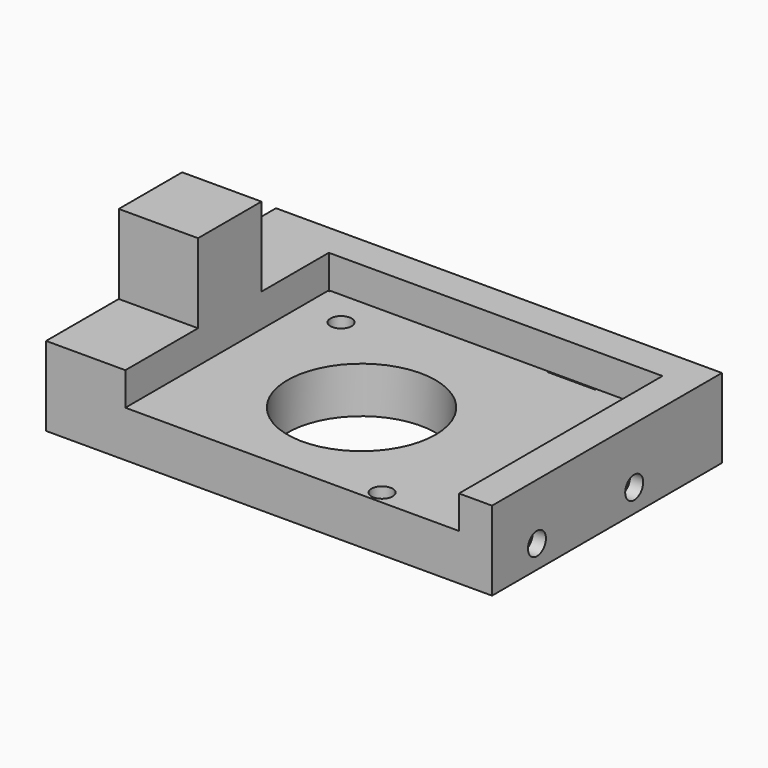
from build123d import *

# Parameters (mm, degrees)
SKETCH_W        = 67.5
SKETCH_H        = 43.5
SKETCH_R        = 11.2
SKETCH_R_2      = 1.6
SKETCH_W_2      = 7.2
SKETCH_H_2      = 3.2
SKETCH_W_3      = 3.2
SKETCH_H_3      = 7.2
PAD_DEPTH       = 7
PAD001_DEPTH    = 5
SKETCH002_W     = 12
SKETCH002_H     = 12
PAD002_DEPTH    = 12
SKETCH003_R     = 4.2
POCKET_DEPTH    = 5
SKETCH004_R     = 1.7
POCKET001_DEPTH = 5
SKETCH005_R     = 1.7
POCKET002_DEPTH = 5


with BuildPart() as part:
    # Sketch → Pad (new body)
    with BuildSketch(Plane.XY):
        Rectangle(SKETCH_W, SKETCH_H)
        with Locations((0, -4.25)):
            Circle(SKETCH_R, mode=Mode.SUBTRACT)
        with Locations((-15.5, 11.25)):
            Circle(SKETCH_R_2, mode=Mode.SUBTRACT)
        with Locations((15.5, -19.75)):
            Circle(SKETCH_R_2, mode=Mode.SUBTRACT)
        with Locations((15.15, 18.15)):
            Rectangle(SKETCH_W_2, SKETCH_H_2, mode=Mode.SUBTRACT)
        with Locations((-25.15, 18.15)):
            Rectangle(SKETCH_W_2, SKETCH_H_2, mode=Mode.SUBTRACT)
        with Locations((30.15, 5.15)):
            Rectangle(SKETCH_W_3, SKETCH_H_3, mode=Mode.SUBTRACT)
        with Locations((30.15, -13.15)):
            Rectangle(SKETCH_W_3, SKETCH_H_3, mode=Mode.SUBTRACT)
    extrude(amount=PAD_DEPTH)

    # Sketch001 → Pad001 (new body)
    with BuildSketch(Plane.XY.offset(7)):
        Polygon((28.75, -21.75), (33.75, -21.75), (33.75, 21.75), (-33.75, 21.75), (-33.75, -21.75), (-21.75, -21.75), (-21.75, 16.75), (28.75, 16.75), align=None)
    extrude(amount=PAD001_DEPTH)

    # Sketch002 → Pad002 (new body)
    with BuildSketch(Plane.XY.offset(12)):
        with Locations((-27.75, -2)):
            Rectangle(SKETCH002_W, SKETCH002_H)
    extrude(amount=PAD002_DEPTH)

    # Sketch003 → Pocket (cut)
    with BuildSketch(Plane(origin=(-33.75, 0, 0), x_dir=(0, -1, 0), z_dir=(-1, 0, 0))):
        with Locations((2, 18)):
            Circle(SKETCH003_R)
    extrude(amount=-POCKET_DEPTH, mode=Mode.SUBTRACT)

    # Sketch004 → Pocket001 (cut)
    with BuildSketch(Plane(origin=(0, 21.75, 0), x_dir=(-1, 0, 0), z_dir=(0, 1, 0))):
        with Locations((25, 3.75)):
            Circle(SKETCH004_R)
        with Locations((-15, 3.75)):
            Circle(SKETCH004_R)
    extrude(amount=-POCKET001_DEPTH, mode=Mode.SUBTRACT)

    # Sketch005 → Pocket002 (cut)
    with BuildSketch(Plane.YZ.offset(33.75)):
        with Locations((5.15, 3.5)):
            Circle(SKETCH005_R)
        with Locations((-13.25, 3.5)):
            Circle(SKETCH005_R)
    extrude(amount=-POCKET002_DEPTH, mode=Mode.SUBTRACT)


solid = part.part
